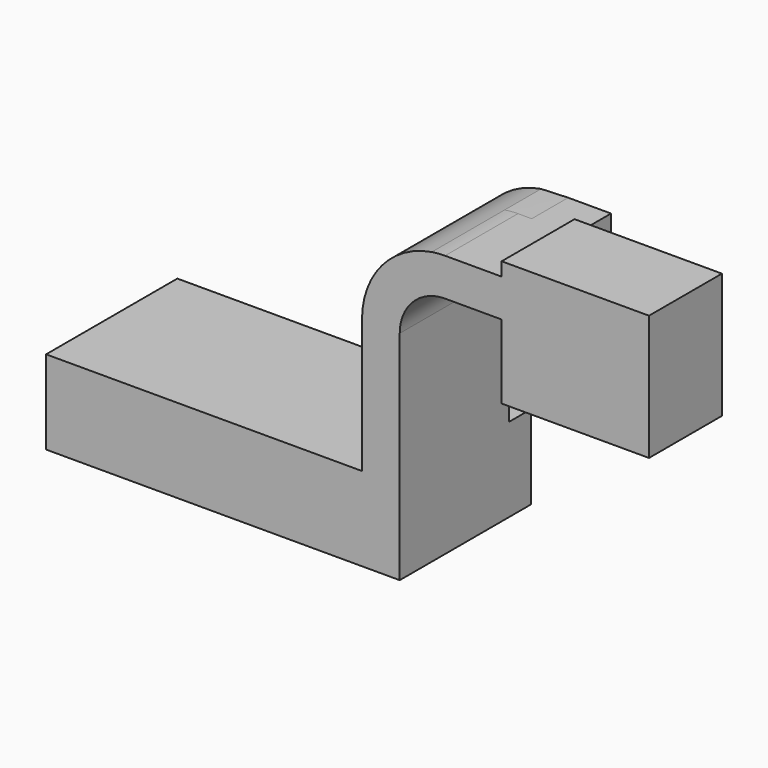
from build123d import *

# Parameters (mm, degrees)
F1_DEPTH = 20
F2_DEPTH = 12.5
F3_DEPTH = 25
F4_DEPTH = 25


with BuildPart() as f1:
    # F0 (on Front) → F1 (new body, symmetric)
    with BuildSketch(Plane.XZ):
        Polygon((48.5, -11.5), (48.5, 11.5), (38.151402, 11.5), (-48.5, 11.5), (-48.5, -11.5), align=None)
    extrude(amount=F1_DEPTH, both=True)

    # F0 (on Front) → F2 (join, symmetric)
    with BuildSketch(Plane.XZ):
        with BuildLine():
            Line((38.151402, 11.5), (48.5, 11.5))
            Line((48.5, 11.5), (48.5, 48.114586))
            ThreePointArc((48.5, 48.114586), (52.140113, 56.902597), (60.928124, 60.54271))
            Line((60.928124, 60.54271), (76.454861, 60.54271))
            Line((76.454861, 60.54271), (76.454861, 70.891308))
            Line((76.454861, 70.891308), (64.704314, 70.891308))
            add(Edge.make_bspline(
                [(57.274692, 70.59639), (59.883301, 70.756612), (62.369155, 70.854308), (64.704314, 70.891308)],
                knots=[119.890309, 119.890309, 119.890309, 119.890309, 127.668117, 127.668117, 127.668117, 127.668117], degree=3))
            ThreePointArc((57.274692, 70.59639), (43.578884, 62.872057), (38.151402, 48.114586))
            Line((38.151402, 48.114586), (38.151402, 11.5))
        make_face()
    extrude(amount=F2_DEPTH, both=True)

    # F0 (on Front) → F3 (join)
    with BuildSketch(Plane.XZ):
        Polygon((48.5, -11.5), (48.5, 11.5), (38.151402, 11.5), (-48.5, 11.5), (-48.5, -11.5), align=None)
        with BuildLine():
            Line((38.151402, 11.5), (48.5, 11.5))
            Line((48.5, 11.5), (48.5, 48.114586))
            ThreePointArc((48.5, 48.114586), (52.140113, 56.902597), (60.928124, 60.54271))
            Line((60.928124, 60.54271), (76.454861, 60.54271))
            Line((76.454861, 60.54271), (76.454861, 70.891308))
            Line((76.454861, 70.891308), (64.704314, 70.891308))
            add(Edge.make_bspline(
                [(57.274692, 70.59639), (59.883301, 70.756612), (62.369155, 70.854308), (64.704314, 70.891308)],
                knots=[119.890309, 119.890309, 119.890309, 119.890309, 127.668117, 127.668117, 127.668117, 127.668117], degree=3))
            ThreePointArc((57.274692, 70.59639), (43.578884, 62.872057), (38.151402, 48.114586))
            Line((38.151402, 48.114586), (38.151402, 11.5))
        make_face()
        with BuildLine():
            ThreePointArc((60.928124, 70.891308), (59.095466, 70.817459), (57.274692, 70.59639))
            add(Edge.make_bspline(
                [(57.274692, 70.59639), (59.883301, 70.756612), (62.369155, 70.854308), (64.704314, 70.891308)],
                knots=[119.890309, 119.890309, 119.890309, 119.890309, 127.668117, 127.668117, 127.668117, 127.668117], degree=3))
            Line((64.704314, 70.891308), (60.928124, 70.891308))
        make_face()
        Polygon((76.454861, 70.891308), (76.454861, 60.54271), (76.454861, 40.248264), (116.871528, 40.248264), (116.871528, 74.602442), (76.454861, 74.602442), align=None)
    extrude(amount=F3_DEPTH)

    # F0 (on Front) → F4 (join)
    with BuildSketch(Plane.XZ):
        Polygon((48.5, -11.5), (48.5, 11.5), (38.151402, 11.5), (-48.5, 11.5), (-48.5, -11.5), align=None)
        with BuildLine():
            Line((38.151402, 11.5), (48.5, 11.5))
            Line((48.5, 11.5), (48.5, 48.114586))
            ThreePointArc((48.5, 48.114586), (52.140113, 56.902597), (60.928124, 60.54271))
            Line((60.928124, 60.54271), (76.454861, 60.54271))
            Line((76.454861, 60.54271), (76.454861, 70.891308))
            Line((76.454861, 70.891308), (64.704314, 70.891308))
            add(Edge.make_bspline(
                [(57.274692, 70.59639), (59.883301, 70.756612), (62.369155, 70.854308), (64.704314, 70.891308)],
                knots=[119.890309, 119.890309, 119.890309, 119.890309, 127.668117, 127.668117, 127.668117, 127.668117], degree=3))
            ThreePointArc((57.274692, 70.59639), (43.578884, 62.872057), (38.151402, 48.114586))
            Line((38.151402, 48.114586), (38.151402, 11.5))
        make_face()
        with BuildLine():
            ThreePointArc((60.928124, 70.891308), (59.095466, 70.817459), (57.274692, 70.59639))
            add(Edge.make_bspline(
                [(57.274692, 70.59639), (59.883301, 70.756612), (62.369155, 70.854308), (64.704314, 70.891308)],
                knots=[119.890309, 119.890309, 119.890309, 119.890309, 127.668117, 127.668117, 127.668117, 127.668117], degree=3))
            Line((64.704314, 70.891308), (60.928124, 70.891308))
        make_face()
        Polygon((76.454861, 70.891308), (76.454861, 60.54271), (76.454861, 40.248264), (116.871528, 40.248264), (116.871528, 74.602442), (76.454861, 74.602442), align=None)
    extrude(amount=F4_DEPTH)


solid = f1.part
